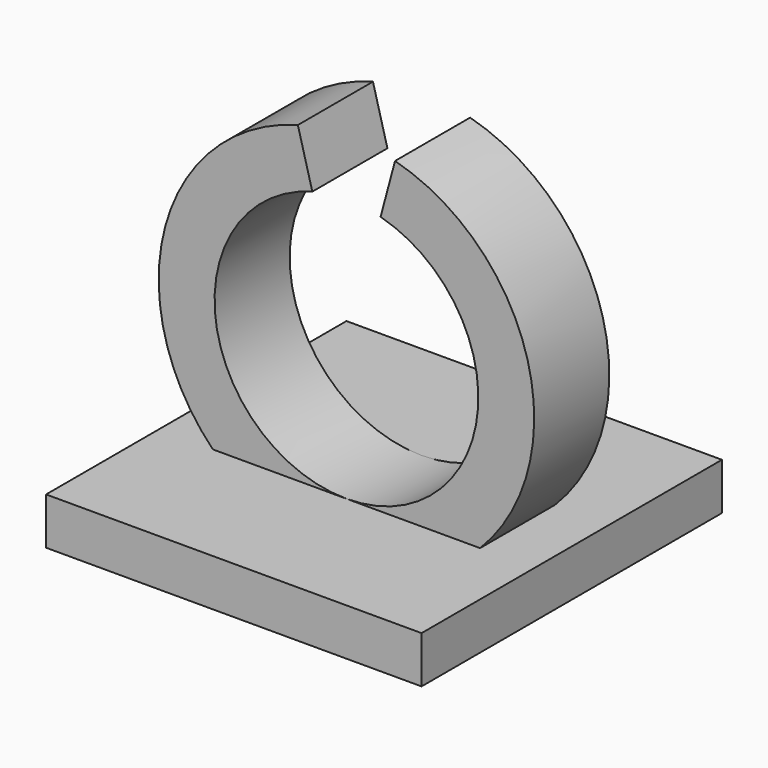
from build123d import *

# Parameters (mm, degrees)
F0_W     = 20
F0_H     = 20
F1_DEPTH = 2.5
F3_DEPTH = 1.5
F4_DEPTH = 2.5
F5_DEPTH = 2


with BuildPart() as f1:
    # F0 (on Top) → F1 (new body)
    with BuildSketch(Plane.XY):
        Rectangle(F0_W, F0_H)
    extrude(amount=F1_DEPTH)

    # F2 (on Front) → F3 (join, symmetric)
    with BuildSketch(Plane.XZ):
        with BuildLine():
            Line((-1.818204, 16.310629), (-2.58819, 19.184258))
            ThreePointArc((-2.58819, 19.184258), (-9.997161, 9.76325), (-3.045386, 0))
            Line((-3.045386, 0), (3.045386, 0))
            ThreePointArc((3.045386, 0), (9.997161, 9.76325), (2.58819, 19.184258))
            Line((2.58819, 19.184258), (1.818204, 16.310629))
            ThreePointArc((1.818204, 16.310629), (0, 2.5), (-1.818204, 16.310629))
        make_face()
    extrude(amount=F3_DEPTH, both=True)

    # F2 (on Front) → F4 (join, symmetric)
    with BuildSketch(Plane.XZ):
        with BuildLine():
            Line((-1.818204, 16.310629), (-2.58819, 19.184258))
            ThreePointArc((-2.58819, 19.184258), (-9.997161, 9.76325), (-3.045386, 0))
            Line((-3.045386, 0), (3.045386, 0))
            ThreePointArc((3.045386, 0), (9.997161, 9.76325), (2.58819, 19.184258))
            Line((2.58819, 19.184258), (1.818204, 16.310629))
            ThreePointArc((1.818204, 16.310629), (0, 2.5), (-1.818204, 16.310629))
        make_face()
    extrude(amount=F4_DEPTH, both=True)

    # F2 (on Front) → F5 (join, symmetric)
    with BuildSketch(Plane.XZ):
        with BuildLine():
            Line((-1.818204, 16.310629), (-2.58819, 19.184258))
            ThreePointArc((-2.58819, 19.184258), (-9.997161, 9.76325), (-3.045386, 0))
            Line((-3.045386, 0), (3.045386, 0))
            ThreePointArc((3.045386, 0), (9.997161, 9.76325), (2.58819, 19.184258))
            Line((2.58819, 19.184258), (1.818204, 16.310629))
            ThreePointArc((1.818204, 16.310629), (0, 2.5), (-1.818204, 16.310629))
        make_face()
    extrude(amount=F5_DEPTH, both=True)


solid = f1.part
